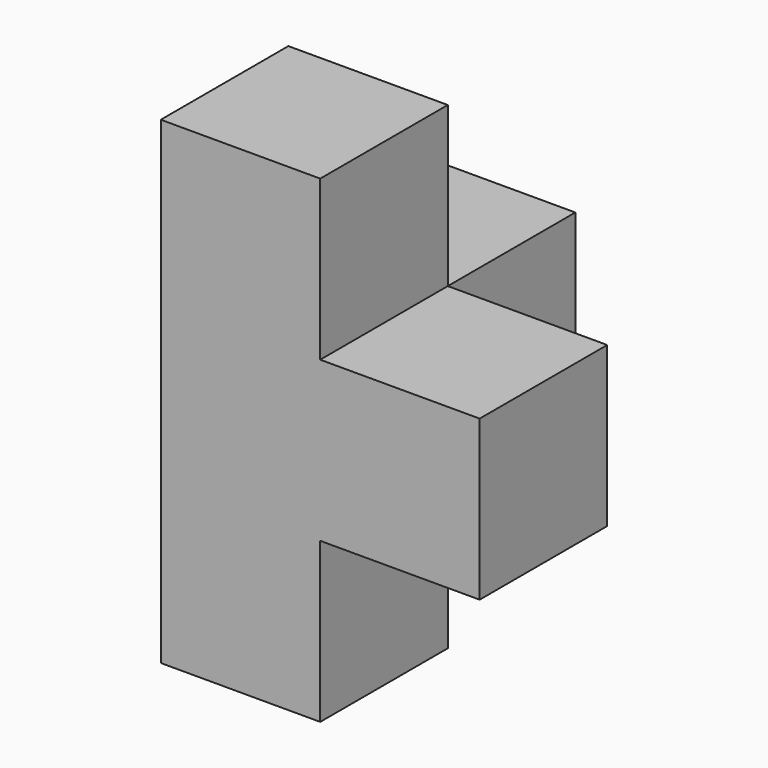
from build123d import *

# Parameters (mm, degrees)
F0_W     = 19.05
F0_H     = 19.05
F1_DEPTH = 57.15
F2_W     = 19.05
F2_H     = 19.05
F3_DEPTH = 19.05
F4_W     = 19.05
F4_H     = 19.05
F5_DEPTH = 19.05


with BuildPart() as f1:
    # F0 (on Top) → F1 (new body)
    with BuildSketch(Plane.XY):
        with Locations((9.525, 9.525)):
            Rectangle(F0_W, F0_H)
    extrude(amount=F1_DEPTH)

    # F2 (on face) → F3 (join)
    with BuildSketch(Plane.YZ.offset(19.05)):
        with Locations((9.525, 28.575)):
            Rectangle(F2_W, F2_H)
    extrude(amount=F3_DEPTH)

    # F4 (on face) → F5 (join)
    with BuildSketch(Plane(origin=(0, 19.05, 0), x_dir=(-1, 0, 0), z_dir=(0, 1, 0))):
        with Locations((-9.525, 28.575)):
            Rectangle(F4_W, F4_H)
    extrude(amount=F5_DEPTH)


solid = f1.part
